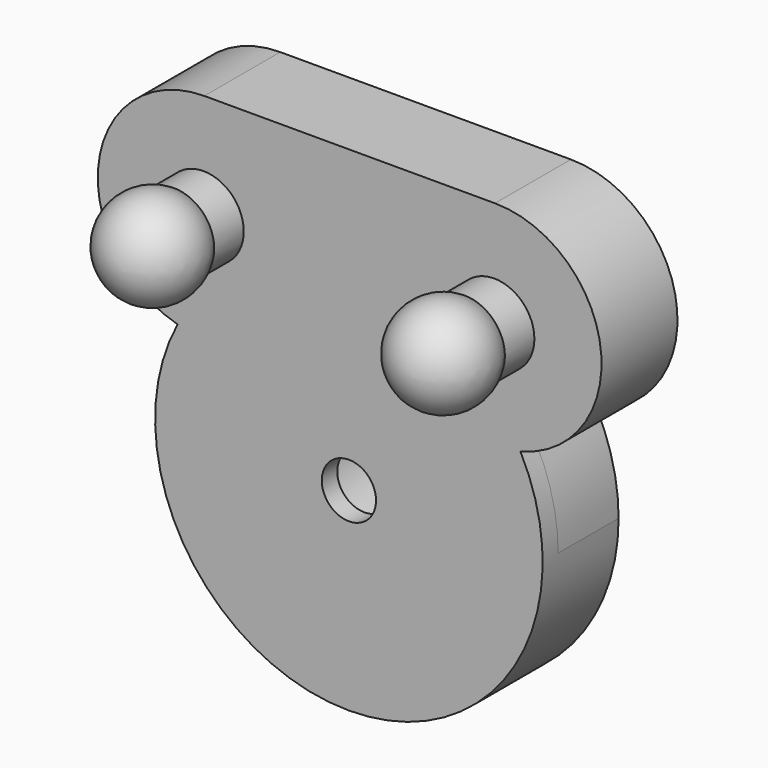
from build123d import *

# Parameters (mm, degrees)
F0_R     = 3.05
F1_DEPTH = 3.9
F2_R     = 3.05
F2_R_2   = 1.4
F3_DEPTH = 1


with BuildPart() as f1:
    # F0 (on Front) → F1 (new body)
    with BuildSketch(Plane.XZ):
        with BuildLine():
            ThreePointArc((7.5383832306, 6.5705995365), (8.2516737727, 5.6488830709), (8.8528781464, 4.6504353048))
            ThreePointArc((8.8528781464, 4.6504353048), (8.9284772277, 4.6763186551), (9.0050498972, 4.6991614919))
            ThreePointArc((9.0050498972, 4.6991614919), (12.9883654229, 10.7400635802), (7.5383832306, 15.5))
            Line((7.5383832306, 15.5), (-7.4616167694, 15.5))
            ThreePointArc((-7.4616167694, 15.5), (-12.9115989618, 10.7400635802), (-8.9282834361, 4.6991614919))
            ThreePointArc((-8.9282834361, 4.6991614919), (-8.8845194647, 4.6865143215), (-8.8410548965, 4.6728736679))
            ThreePointArc((-8.8410548965, 4.6728736679), (-8.2115228808, 5.7070913763), (-7.4616167694, 6.6576478719))
            ThreePointArc((-7.4616167694, 6.6576478719), (-4.0880020353, 9.1262390589), (0, 10))
            ThreePointArc((0, 10), (4.1408939032, 9.1023622034), (7.5383832306, 6.5705995365))
        make_face()
        with BuildLine():
            ThreePointArc((-7.4616167694, 6.6576478719), (-8.2115228808, 5.7070913763), (-8.8410548965, 4.6728736679))
            ThreePointArc((-8.8410548965, 4.6728736679), (-7.84280181, 3.9460786917), (-7.4616167694, 2.7715838526))
            Line((-7.4616167694, 2.7715838526), (-7.4616167694, 6.6576478719))
        make_face()
        with BuildLine():
            ThreePointArc((-8.8410548965, 4.6728736679), (-2.4072236118, -9.7059401648), (10, 0))
            ThreePointArc((10, 0), (9.7089850516, 2.3949132068), (8.8528781464, 4.6504353048))
            ThreePointArc((8.8528781464, 4.6504353048), (7.8996321561, 3.9180980984), (7.5383832306, 2.7715838526))
            Line((7.5383832306, 2.7715838526), (7.5383832306, 6.5705995365))
            ThreePointArc((7.5383832306, 6.5705995365), (4.1408939032, 9.1023622034), (0, 10))
            ThreePointArc((0, 10), (-4.0880020353, 9.1262390589), (-7.4616167694, 6.6576478719))
            Line((-7.4616167694, 6.6576478719), (-7.4616167694, 2.7715838526))
            ThreePointArc((-7.4616167694, 2.7715838526), (-7.84280181, 3.9460786917), (-8.8410548965, 4.6728736679))
        make_face()
        Circle(F0_R, mode=Mode.SUBTRACT)
        with BuildLine():
            ThreePointArc((7.5383832306, 2.7715838526), (7.8996321561, 3.9180980984), (8.8528781464, 4.6504353048))
            ThreePointArc((8.8528781464, 4.6504353048), (8.2516737727, 5.6488830709), (7.5383832306, 6.5705995365))
            Line((7.5383832306, 6.5705995365), (7.5383832306, 2.7715838526))
        make_face()
    extrude(amount=F1_DEPTH)

    # F2 (on face) → F3 (join)
    with BuildSketch(Plane.XZ.offset(3.9)):
        with BuildLine():
            ThreePointArc((-8.9282834361, 4.6991614919), (-8.8845194647, 4.6865143215), (-8.8410548965, 4.6728736679))
            ThreePointArc((-8.8410548965, 4.6728736679), (-0.0126813778, -9.9999919591), (8.8528781464, 4.6504353048))
            ThreePointArc((8.8528781464, 4.6504353048), (8.9284772277, 4.6763186551), (9.0050498972, 4.6991614919))
            ThreePointArc((9.0050498972, 4.6991614919), (12.9883654229, 10.7400635802), (7.5383832306, 15.5))
            Line((7.5383832306, 15.5), (-7.4616167694, 15.5))
            ThreePointArc((-7.4616167694, 15.5), (-12.9115989618, 10.7400635802), (-8.9282834361, 4.6991614919))
        make_face()
        Circle(F2_R, mode=Mode.SUBTRACT)
        Circle(F2_R)
        Circle(F2_R_2, mode=Mode.SUBTRACT)
    extrude(amount=F3_DEPTH)

    # F5 (on offset) → F6 (revolve)
    with BuildSketch(Plane.XY.offset(10)):
        with BuildLine():
            Line((-7.5, -5.7002530202), (-7.5, -10.7002530202))
            ThreePointArc((-7.5, -10.7002530202), (-5.2926553092, -9.3739776115), (-5.427348204, -6.8023565532))
            ThreePointArc((-5.427348204, -6.8023565532), (-6.3262754087, -5.9929083295), (-7.5, -5.7002530202))
        make_face()
        with BuildLine():
            ThreePointArc((-7.5, -5.7002530202), (-6.3262754087, -5.9929083295), (-5.427348204, -6.8023565532))
            Line((-5.427348204, -6.8023565532), (-5.427348204, -4.8014420412))
            Line((-5.427348204, -4.8014420412), (-7.5, -4.8014420412))
            Line((-7.5, -4.8014420412), (-7.5, -4.8982134417))
            Line((-7.5, -4.8982134417), (-7.5, -5.7002530202))
        make_face()
    revolve(axis=Axis((-7.5, -4.8982134417, 10), (0, -1, 0)))

    # F5 (on offset) → F7 (revolve)
    with BuildSketch(Plane.XY.offset(10)):
        with BuildLine():
            ThreePointArc((7.5, -5.7002530202), (8.6737245913, -5.9929083295), (9.572651796, -6.8023565532))
            Line((9.572651796, -6.8023565532), (9.572651796, -4.7845813774))
            Line((9.572651796, -4.7845813774), (7.5, -4.7845813774))
            Line((7.5, -4.7845813774), (7.5, -5.7002530202))
        make_face()
        with BuildLine():
            Line((7.5, -5.7002530202), (7.5, -10.7002530202))
            ThreePointArc((7.5, -10.7002530202), (9.7073446908, -9.3739776115), (9.572651796, -6.8023565532))
            ThreePointArc((9.572651796, -6.8023565532), (8.6737245913, -5.9929083295), (7.5, -5.7002530202))
        make_face()
    revolve(axis=Axis((7.5, -4.7317600206, 10), (0, -1, 0)))


solid = f1.part
